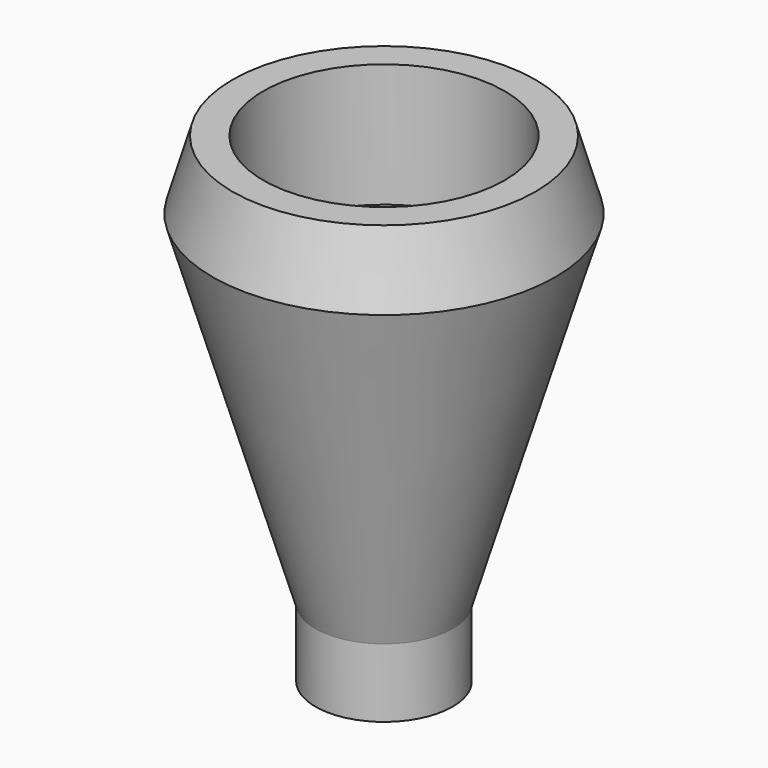
from build123d import *

# Parameters (mm, degrees)
F0_W     = 6.35
F0_H     = 6.35
F2_R     = 11.176
F3_DEPTH = 11.43
F4_R     = 4.826
F5_DEPTH = 38.1


with BuildPart() as f1:
    # F0 (on Front) → F1 (revolve)
    with BuildSketch(Plane.XZ):
        Polygon((0, 38.1), (0, 0), (6.35, 0), (15.875, 31.75), (14.02334, 38.1), align=None)
        with Locations((3.175, -3.175)):
            Rectangle(F0_W, F0_H)
    revolve(axis=Axis((0, 0, 19.05), (0, 0, -1)))

    # F2 (on face) → F3 (cut)
    with BuildSketch(Plane.XY.offset(38.1)):
        Circle(F2_R)
    extrude(amount=-F3_DEPTH, mode=Mode.SUBTRACT)

    # F4 (on face) → F5 (cut)
    with BuildSketch(Plane.XY.offset(38.1)):
        Circle(F4_R)
    extrude(amount=-F5_DEPTH, mode=Mode.SUBTRACT)


solid = f1.part
